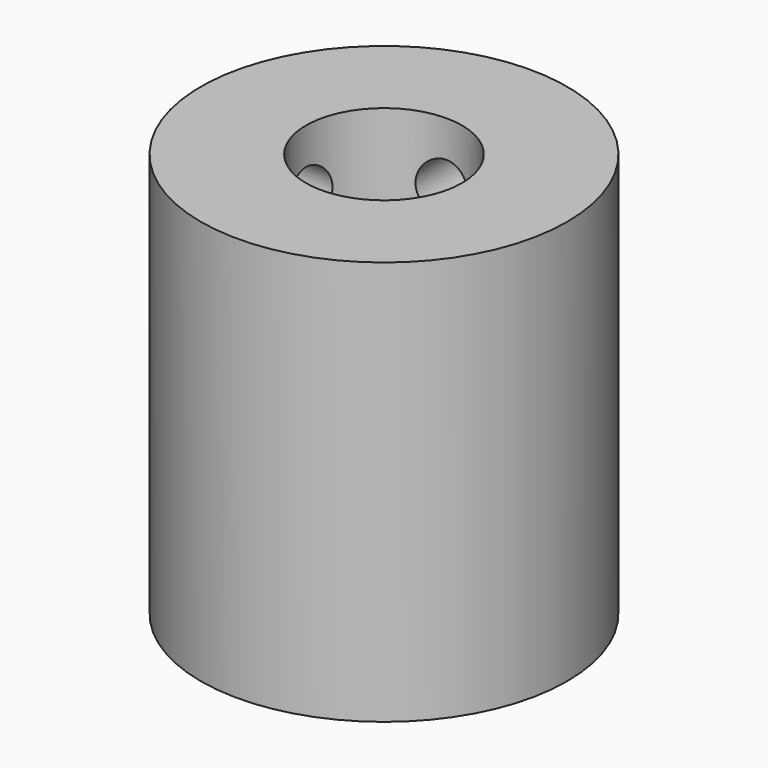
from build123d import *

# Parameters (mm, degrees)
SKETCH_R        = 11.5
SKETCH_R_2      = 3.93
PAD_DEPTH       = 25.4
SKETCH001_R     = 4.9
POCKET_DEPTH    = 12.7
SKETCH002_R     = 1.7
POCKET001_DEPTH = 11.501
SKETCH003_R     = 1.7
POCKET002_DEPTH = 11.501


with BuildPart() as part:
    # Sketch → Pad (new body)
    with BuildSketch(Plane.XY):
        Circle(SKETCH_R)
        Circle(SKETCH_R_2, mode=Mode.SUBTRACT)
    extrude(amount=PAD_DEPTH)

    # Sketch001 (on Face4 of Pad) → Pocket (cut)
    with BuildSketch(Plane.XY.offset(25.4)):
        Circle(SKETCH001_R)
    extrude(amount=-POCKET_DEPTH, mode=Mode.SUBTRACT)

    # Sketch002 → Pocket001 (cut, through all)
    with BuildSketch(Plane.XZ):
        with Locations((0, 4)):
            Circle(SKETCH002_R)
        with Locations((0, 21.4)):
            Circle(SKETCH002_R)
    extrude(amount=-POCKET001_DEPTH, mode=Mode.SUBTRACT)

    # Sketch003 → Pocket002 (cut, through all)
    with BuildSketch(Plane.YZ):
        with Locations((0, 4)):
            Circle(SKETCH003_R)
        with Locations((0, 21.4)):
            Circle(SKETCH003_R)
    extrude(amount=-POCKET002_DEPTH, mode=Mode.SUBTRACT)


with BuildPart() as part_1:
    # Clone placement: moved
    add(part.part.moved(Location((0, 0, -26.4))))


solid = part_1.part
